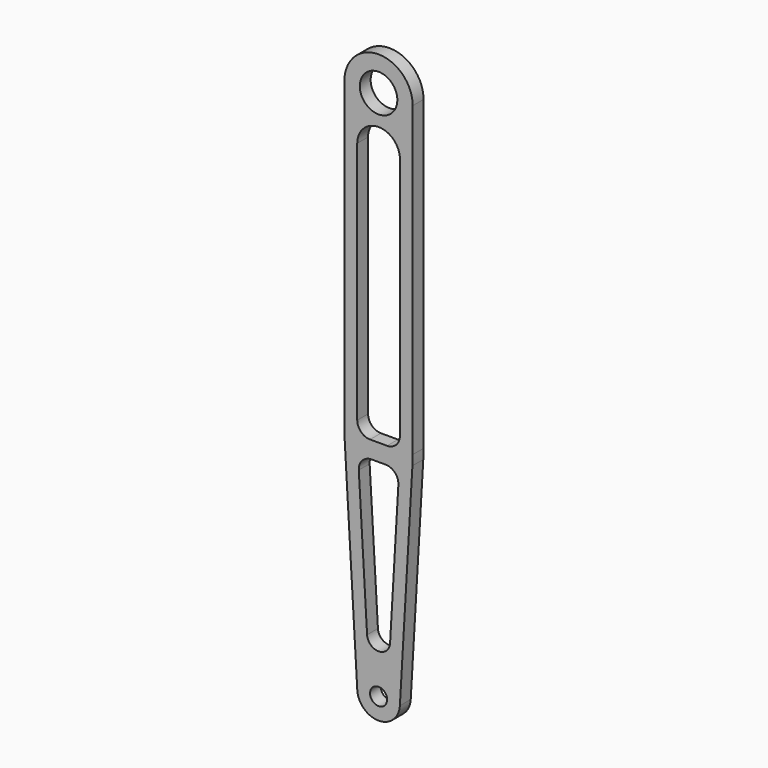
from build123d import *

# Parameters (mm, degrees)
F0_R     = 1
F0_R_2   = 2.2
F1_DEPTH = 1.59


with BuildPart() as f1:
    # F0 (on Front) → F1 (new body)
    with BuildSketch(Plane.XZ):
        with BuildLine():
            Line((-4, 29.116693), (-4, -6.883307))
            ThreePointArc((-4, -6.883307), (-3.99153, -7.465305), (-3.966128, -8.04681))
            Line((-3.966128, -8.04681), (-2.495766, -33.278745))
            ThreePointArc((-2.495766, -33.278745), (0, -35.633307), (2.495766, -33.278745))
            Line((2.495766, -33.278745), (3.966128, -8.04681))
            ThreePointArc((3.966128, -8.04681), (3.99153, -7.465305), (4, -6.883307))
            Line((4, -6.883307), (4, 29.116693))
            ThreePointArc((4, 29.116693), (0, 33.116693), (-4, 29.116693))
        make_face()
        with Locations((0, -33.133307)):
            Circle(F0_R, mode=Mode.SUBTRACT)
        with BuildLine():
            ThreePointArc((1.346766, -27.211788), (0, -28.482358), (-1.346766, -27.211788))
            Line((-1.346766, -27.211788), (-2.318611, -10.534579))
            ThreePointArc((-2.318611, -10.534579), (-1.912228, -9.41797), (-0.821152, -8.947316))
            Line((-0.821152, -8.947316), (0.821152, -8.947316))
            ThreePointArc((0.821152, -8.947316), (1.912228, -9.41797), (2.318611, -10.534579))
            Line((2.318611, -10.534579), (1.346766, -27.211788))
        make_face(mode=Mode.SUBTRACT)
        with BuildLine():
            Line((-2.5, -5.447316), (-2.5, 23.116693))
            ThreePointArc((-2.5, 23.116693), (0, 25.616693), (2.5, 23.116693))
            Line((2.5, 23.116693), (2.5, -5.447316))
            ThreePointArc((2.5, -5.447316), (2.06066, -6.507976), (1, -6.947316))
            Line((1, -6.947316), (-1, -6.947316))
            ThreePointArc((-1, -6.947316), (-2.06066, -6.507976), (-2.5, -5.447316))
        make_face(mode=Mode.SUBTRACT)
        with Locations((0, 29.116693)):
            Circle(F0_R_2, mode=Mode.SUBTRACT)
    extrude(amount=-F1_DEPTH)


solid = f1.part
